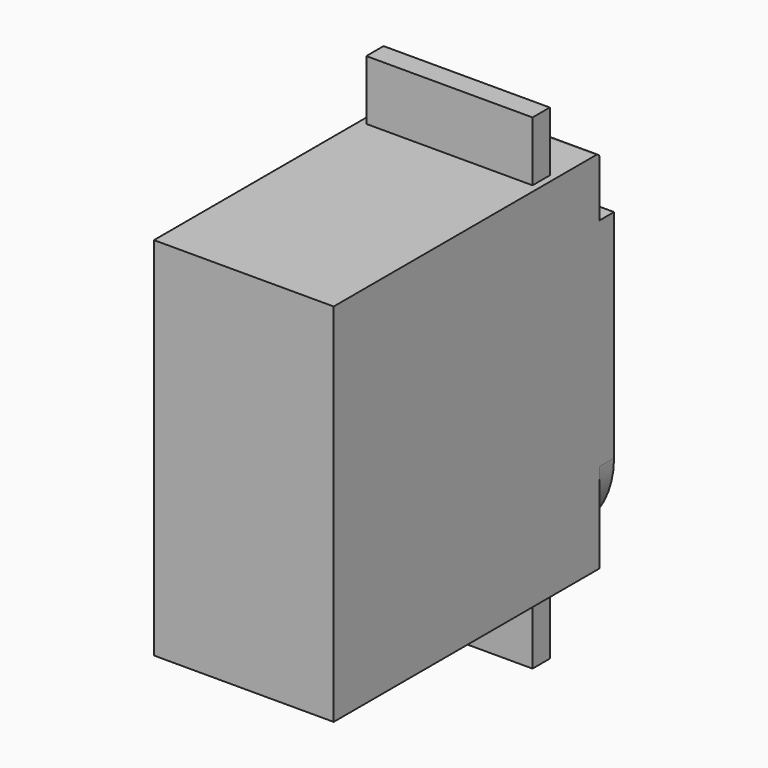
from build123d import *

# Parameters (mm, degrees)
SKETCH020_W     = 20
SKETCH020_H     = 40.7
PAD008_DEPTH    = 37
SKETCH021_W     = 18.5
SKETCH021_H     = 2.4
PAD009_DEPTH    = 6.65
SKETCH022_W     = 18.5
SKETCH022_H     = 2.4
PAD010_DEPTH    = 6.65
PAD011_DEPTH    = 2
FILLET_R        = 0.5
SKETCH024_R     = 6.5
PAD012_DEPTH    = 1
PAD013_DEPTH    = 5
SKETCH026_R     = 1.3
POCKET004_DEPTH = 5


with BuildPart() as part:
    # Sketch020 → Pad008 (new body)
    with BuildSketch(Plane.XZ):
        with Locations((10, 22.35)):
            Rectangle(SKETCH020_W, SKETCH020_H)
    extrude(amount=-PAD008_DEPTH)

    # Sketch021 (on Face1 of Pad008) → Pad009 (join)
    with BuildSketch(Plane(origin=(0, 0, 42.7), x_dir=(-1, 0, 0), z_dir=(0, 0, 1))):
        with Locations((-10, -29.8)):
            Rectangle(SKETCH021_W, SKETCH021_H)
    extrude(amount=PAD009_DEPTH)

    # Sketch022 (on Face3 of Pad008) → Pad010 (join)
    with BuildSketch(Plane(origin=(0, 0, 2), x_dir=(1, 0, 0), z_dir=(0, 0, -1))):
        with Locations((10, -29.8)):
            Rectangle(SKETCH022_W, SKETCH022_H)
    extrude(amount=PAD010_DEPTH)

    # Sketch023 (on Face4 of Pad010) → Pad011 (join)
    with BuildSketch(Plane(origin=(0, 37, 0), x_dir=(1, 0, 0), z_dir=(0, 1, 0))):
        with BuildLine():
            ThreePointArc((20, -12), (10, -2), (0, -12))
            Line((0, -12), (0, -36.1))
            Line((0, -36.1), (20, -36.1))
            Line((20, -12), (20, -36.1))
        make_face()
    extrude(amount=PAD011_DEPTH)

    # Fillet
    fillet_edges = [part.edges().sort_by_distance(p)[0] for p in [
        (10, 37, 42.7),
    ]]
    fillet(fillet_edges, radius=FILLET_R)

    # Sketch024 (on Face23 of Fillet) → Pad012 (join)
    with BuildSketch(Plane(origin=(0, 39, 0), x_dir=(1, 0, 0), z_dir=(0, 1, 0))):
        with Locations((10, -12)):
            Circle(SKETCH024_R)
    extrude(amount=PAD012_DEPTH)

    # InvoluteGear → Pad013 (join)
    with BuildSketch(Plane(origin=(10, 40, 12), x_dir=(1, 0, 0), z_dir=(0, -1, 0))):
        with BuildLine():
            Line((2.666822, -0.207727), (2.697908, -0.209975))
            add(Edge.make_bspline(
                [(2.697908, -0.209975), (2.709681, -0.210218), (2.745146, -0.209606), (2.804225, -0.197137)],
                knots=[0, 0, 0, 0, 1, 1, 1, 1], degree=3))
            add(Edge.make_bspline(
                [(2.804225, -0.197137), (2.874996, -0.18201), (2.977182, -0.150005), (3.104137, -0.082684)],
                knots=[0, 0, 0, 0, 1, 1, 1, 1], degree=3))
            ThreePointArc((3.104137, -0.082684), (3.105119, 4.5e-05), (3.103897, 0.082769))
            add(Edge.make_bspline(
                [(3.103897, 0.082769), (2.977182, 0.150005), (2.874996, 0.18201), (2.804225, 0.197137)],
                knots=[0, 0, 0, 0, 1, 1, 1, 1], degree=3))
            add(Edge.make_bspline(
                [(2.804225, 0.197137), (2.745146, 0.209606), (2.709681, 0.210218), (2.697908, 0.209975)],
                knots=[0, 0, 0, 0, 1, 1, 1, 1], degree=3))
            Line((2.697908, 0.209975), (2.666822, 0.207727))
            ThreePointArc((2.666822, 0.207727), (2.603454, 0.226944), (2.571748, 0.285077))
            ThreePointArc((2.571748, 0.285077), (2.567097, 0.3243), (2.561847, 0.363447))
            ThreePointArc((2.561847, 0.363447), (2.578101, 0.427639), (2.634699, 0.46201))
            Line((2.634699, 0.46201), (2.665367, 0.467564))
            add(Edge.make_bspline(
                [(2.665367, 0.467564), (2.67683, 0.470257), (2.711029, 0.479669), (2.765151, 0.506439)],
                knots=[0, 0, 0, 0, 1, 1, 1, 1], degree=3))
            add(Edge.make_bspline(
                [(2.765151, 0.506439), (2.829936, 0.538691), (2.920953, 0.595103), (3.027178, 0.691882)],
                knots=[0, 0, 0, 0, 1, 1, 1, 1], degree=3))
            ThreePointArc((3.027178, 0.691882), (3.007555, 0.772255), (2.985798, 0.852077))
            add(Edge.make_bspline(
                [(2.985798, 0.852077), (2.846344, 0.885688), (2.739409, 0.891274), (2.667099, 0.888326)],
                knots=[0, 0, 0, 0, 1, 1, 1, 1], degree=3))
            add(Edge.make_bspline(
                [(2.667099, 0.888326), (2.606776, 0.885711), (2.572272, 0.877483), (2.56093, 0.874321)],
                knots=[0, 0, 0, 0, 1, 1, 1, 1], degree=3))
            Line((2.56093, 0.874321), (2.531379, 0.864413))
            ThreePointArc((2.531379, 0.864413), (2.465223, 0.867267), (2.420056, 0.915688))
            ThreePointArc((2.420056, 0.915688), (2.405797, 0.952522), (2.390977, 0.989134))
            ThreePointArc((2.390977, 0.989134), (2.390756, 1.055351), (2.437027, 1.102718))
            Line((2.437027, 1.102718), (2.465351, 1.115724))
            add(Edge.make_bspline(
                [(2.465351, 1.115724), (2.475784, 1.121183), (2.506569, 1.138805), (2.552332, 1.178193)],
                knots=[0, 0, 0, 0, 1, 1, 1, 1], degree=3))
            add(Edge.make_bspline(
                [(2.552332, 1.178193), (2.607062, 1.225544), (2.68119, 1.302818), (2.760009, 1.422973)],
                knots=[0, 0, 0, 0, 1, 1, 1, 1], degree=3))
            ThreePointArc((2.760009, 1.422973), (2.721015, 1.495942), (2.680091, 1.567845))
            add(Edge.make_bspline(
                [(2.680091, 1.567845), (2.536659, 1.565719), (2.431694, 1.544536), (2.362389, 1.523698)],
                knots=[0, 0, 0, 0, 1, 1, 1, 1], degree=3))
            add(Edge.make_bspline(
                [(2.362389, 1.523698), (2.304611, 1.506164), (2.273238, 1.489614), (2.263038, 1.48373)],
                knots=[0, 0, 0, 0, 1, 1, 1, 1], degree=3))
            Line((2.263038, 1.48373), (2.236881, 1.466784))
            ThreePointArc((2.236881, 1.466784), (2.172093, 1.453096), (2.116303, 1.488764))
            ThreePointArc((2.116303, 1.488764), (2.093331, 1.520894), (2.069872, 1.552671))
            ThreePointArc((2.069872, 1.552671), (2.053191, 1.616752), (2.086229, 1.674139))
            Line((2.086229, 1.674139), (2.110428, 1.69378))
            add(Edge.make_bspline(
                [(2.110428, 1.69378), (2.119176, 1.701662), (2.144611, 1.726386), (2.179141, 1.775917)],
                knots=[0, 0, 0, 0, 1, 1, 1, 1], degree=3))
            add(Edge.make_bspline(
                [(2.179141, 1.775917), (2.220376, 1.835391), (2.272958, 1.928672), (2.319419, 2.064654)],
                knots=[0, 0, 0, 0, 1, 1, 1, 1], degree=3))
            ThreePointArc((2.319419, 2.064654), (2.263504, 2.125633), (2.205984, 2.1851))
            add(Edge.make_bspline(
                [(2.205984, 2.1851), (2.067587, 2.14737), (1.971188, 2.100749), (1.909242, 2.06333)],
                knots=[0, 0, 0, 0, 1, 1, 1, 1], degree=3))
            add(Edge.make_bspline(
                [(1.909242, 2.06333), (1.85764, 2.031978), (1.831368, 2.008146), (1.822952, 1.999911)],
                knots=[0, 0, 0, 0, 1, 1, 1, 1], degree=3))
            Line((1.822952, 1.999911), (1.80183, 1.976992))
            ThreePointArc((1.80183, 1.976992), (1.742483, 1.947622), (1.679575, 1.968295))
            ThreePointArc((1.679575, 1.968295), (1.649335, 1.993703), (1.61871, 2.018647))
            ThreePointArc((1.61871, 2.018647), (1.586616, 2.076567), (1.604345, 2.140366))
            Line((1.604345, 2.140366), (1.6229, 2.165409))
            add(Edge.make_bspline(
                [(1.6229, 2.165409), (1.629412, 2.175219), (1.647899, 2.205491), (1.669027, 2.262054)],
                knots=[0, 0, 0, 0, 1, 1, 1, 1], degree=3))
            add(Edge.make_bspline(
                [(1.669027, 2.262054), (1.694175, 2.329914), (1.721907, 2.433341), (1.733092, 2.576606)],
                knots=[0, 0, 0, 0, 1, 1, 1, 1], degree=3))
            ThreePointArc((1.733092, 2.576606), (1.663768, 2.621763), (1.593266, 2.665057))
            add(Edge.make_bspline(
                [(1.593266, 2.665057), (1.4686, 2.594095), (1.386824, 2.524965), (1.33613, 2.473316)],
                knots=[0, 0, 0, 0, 1, 1, 1, 1], degree=3))
            add(Edge.make_bspline(
                [(1.33613, 2.473316), (1.293947, 2.430116), (1.274427, 2.400499), (1.268323, 2.39043)],
                knots=[0, 0, 0, 0, 1, 1, 1, 1], degree=3))
            Line((1.268323, 2.39043), (1.253565, 2.362978))
            ThreePointArc((1.253565, 2.362978), (1.203385, 2.319772), (1.137313, 2.32415))
            ThreePointArc((1.137313, 2.32415), (1.101704, 2.34124), (1.065838, 2.357784))
            ThreePointArc((1.065838, 2.357784), (1.020348, 2.405903), (1.021654, 2.472107))
            Line((1.021654, 2.472107), (1.033398, 2.500977))
            add(Edge.make_bspline(
                [(1.033398, 2.500977), (1.037266, 2.512099), (1.047644, 2.546017), (1.054041, 2.606057)],
                knots=[0, 0, 0, 0, 1, 1, 1, 1], degree=3))
            add(Edge.make_bspline(
                [(1.054041, 2.606057), (1.061524, 2.678039), (1.062663, 2.785114), (1.037868, 2.926659)],
                knots=[0, 0, 0, 0, 1, 1, 1, 1], degree=3))
            ThreePointArc((1.037868, 2.926659), (0.959492, 2.953158), (0.880438, 2.977558))
            add(Edge.make_bspline(
                [(0.880438, 2.977558), (0.777336, 2.877823), (0.715321, 2.790527), (0.679065, 2.727895)],
                knots=[0, 0, 0, 0, 1, 1, 1, 1], degree=3))
            add(Edge.make_bspline(
                [(0.679065, 2.727895), (0.648949, 2.675561), (0.637409, 2.64202), (0.634001, 2.630749)],
                knots=[0, 0, 0, 0, 1, 1, 1, 1], degree=3))
            Line((0.634001, 2.630749), (0.626533, 2.60049))
            ThreePointArc((0.626533, 2.60049), (0.588675, 2.546162), (0.52359, 2.533971))
            ThreePointArc((0.52359, 2.533971), (0.484849, 2.541668), (0.445996, 2.548773))
            ThreePointArc((0.445996, 2.548773), (0.389968, 2.584067), (0.374769, 2.648516))
            Line((0.374769, 2.648516), (0.378964, 2.6794))
            add(Edge.make_bspline(
                [(0.378964, 2.6794), (0.379945, 2.691134), (0.381562, 2.726568), (0.372827, 2.786313)],
                knots=[0, 0, 0, 0, 1, 1, 1, 1], degree=3))
            add(Edge.make_bspline(
                [(0.372827, 2.786313), (0.362173, 2.857894), (0.336648, 2.961888), (0.277431, 3.09282)],
                knots=[0, 0, 0, 0, 1, 1, 1, 1], degree=3))
            ThreePointArc((0.277431, 3.09282), (0.194928, 3.098995), (0.112289, 3.102969))
            add(Edge.make_bspline(
                [(0.112289, 3.102969), (0.03723, 2.980726), (-0.001128, 2.880751), (-0.020669, 2.811069)],
                knots=[0, 0, 0, 0, 1, 1, 1, 1], degree=3))
            add(Edge.make_bspline(
                [(-0.020669, 2.811069), (-0.036823, 2.752891), (-0.039661, 2.717533), (-0.040158, 2.705769)],
                knots=[0, 0, 0, 0, 1, 1, 1, 1], degree=3))
            Line((-0.040158, 2.705769), (-0.039866, 2.674603))
            ThreePointArc((-0.039866, 2.674603), (-0.063024, 2.612567), (-0.123033, 2.584573))
            ThreePointArc((-0.123033, 2.584573), (-0.16247, 2.582394), (-0.20187, 2.579613))
            ThreePointArc((-0.20187, 2.579613), (-0.264914, 2.599865), (-0.295665, 2.658509))
            Line((-0.295665, 2.658509), (-0.299281, 2.689466))
            add(Edge.make_bspline(
                [(-0.299281, 2.689466), (-0.301249, 2.701076), (-0.308496, 2.735799), (-0.331814, 2.791494)],
                knots=[0, 0, 0, 0, 1, 1, 1, 1], degree=3))
            add(Edge.make_bspline(
                [(-0.331814, 2.791494), (-0.359935, 2.858177), (-0.41052, 2.952556), (-0.500438, 3.064648)],
                knots=[0, 0, 0, 0, 1, 1, 1, 1], degree=3))
            ThreePointArc((-0.500438, 3.064648), (-0.581885, 3.050111), (-0.662916, 3.033409))
            add(Edge.make_bspline(
                [(-0.662916, 3.033409), (-0.705217, 2.89634), (-0.717506, 2.789967), (-0.719104, 2.717614)],
                knots=[0, 0, 0, 0, 1, 1, 1, 1], degree=3))
            add(Edge.make_bspline(
                [(-0.719104, 2.717614), (-0.720283, 2.657246), (-0.714238, 2.622294), (-0.711794, 2.610775)],
                knots=[0, 0, 0, 0, 1, 1, 1, 1], degree=3))
            Line((-0.711794, 2.610775), (-0.70376, 2.580661))
            ThreePointArc((-0.70376, 2.580661), (-0.710763, 2.514815), (-0.761925, 2.472777))
            ThreePointArc((-0.761925, 2.472777), (-0.799581, 2.460859), (-0.837052, 2.448367))
            ThreePointArc((-0.837052, 2.448367), (-0.903152, 2.452304), (-0.94752, 2.501459))
            Line((-0.94752, 2.501459), (-0.958722, 2.530543))
            add(Edge.make_bspline(
                [(-0.958722, 2.530543), (-0.963515, 2.541299), (-0.979169, 2.573129), (-1.015606, 2.621275)],
                knots=[0, 0, 0, 0, 1, 1, 1, 1], degree=3))
            add(Edge.make_bspline(
                [(-1.015606, 2.621275), (-1.059427, 2.67887), (-1.131894, 2.757704), (-1.246863, 2.843912)],
                knots=[0, 0, 0, 0, 1, 1, 1, 1], degree=3))
            ThreePointArc((-1.246863, 2.843912), (-1.322136, 2.809577), (-1.396467, 2.773248))
            add(Edge.make_bspline(
                [(-1.396467, 2.773248), (-1.403351, 2.629966), (-1.388801, 2.523878), (-1.372356, 2.453401)],
                knots=[0, 0, 0, 0, 1, 1, 1, 1], degree=3))
            add(Edge.make_bspline(
                [(-1.372356, 2.453401), (-1.358484, 2.394637), (-1.343937, 2.362286), (-1.338705, 2.351737)],
                knots=[0, 0, 0, 0, 1, 1, 1, 1], degree=3))
            Line((-1.338705, 2.351737), (-1.323435, 2.324567))
            ThreePointArc((-1.323435, 2.324567), (-1.313842, 2.259048), (-1.352942, 2.205607))
            ThreePointArc((-1.352942, 2.205607), (-1.386452, 2.184699), (-1.419638, 2.163281))
            ThreePointArc((-1.419638, 2.163281), (-1.484641, 2.150656), (-1.53984, 2.187232))
            Line((-1.53984, 2.187232), (-1.557922, 2.212617))
            add(Edge.make_bspline(
                [(-1.557922, 2.212617), (-1.56524, 2.221843), (-1.588318, 2.24878), (-1.635583, 2.286352)],
                knots=[0, 0, 0, 0, 1, 1, 1, 1], degree=3))
            add(Edge.make_bspline(
                [(-1.635583, 2.286352), (-1.692351, 2.33124), (-1.782146, 2.389575), (-1.914943, 2.444483)],
                knots=[0, 0, 0, 0, 1, 1, 1, 1], degree=3))
            ThreePointArc((-1.914943, 2.444483), (-1.979312, 2.392507), (-2.042273, 2.338834))
            add(Edge.make_bspline(
                [(-2.042273, 2.338834), (-2.013308, 2.198341), (-1.972832, 2.099205), (-1.939377, 2.035032)],
                knots=[0, 0, 0, 0, 1, 1, 1, 1], degree=3))
            add(Edge.make_bspline(
                [(-1.939377, 2.035032), (-1.911327, 1.981564), (-1.889191, 1.953847), (-1.8815, 1.94493)],
                knots=[0, 0, 0, 0, 1, 1, 1, 1], degree=3))
            Line((-1.8815, 1.94493), (-1.859953, 1.922411))
            ThreePointArc((-1.859953, 1.922411), (-1.834368, 1.861337), (-1.858949, 1.799851))
            ThreePointArc((-1.858949, 1.799851), (-1.886206, 1.771266), (-1.913024, 1.742268))
            ThreePointArc((-1.913024, 1.742268), (-1.972845, 1.713874), (-2.035405, 1.735574))
            Line((-2.035405, 1.735574), (-2.059233, 1.755664))
            add(Edge.make_bspline(
                [(-2.059233, 1.755664), (-2.068615, 1.76278), (-2.097667, 1.783132), (-2.152791, 1.807769)],
                knots=[0, 0, 0, 0, 1, 1, 1, 1], degree=3))
            add(Edge.make_bspline(
                [(-2.152791, 1.807769), (-2.218938, 1.837129), (-2.32042, 1.8713), (-2.4627, 1.891459)],
                knots=[0, 0, 0, 0, 1, 1, 1, 1], degree=3))
            ThreePointArc((-2.4627, 1.891459), (-2.51212, 1.825107), (-2.559756, 1.757463))
            add(Edge.make_bspline(
                [(-2.559756, 1.757463), (-2.496762, 1.628587), (-2.432903, 1.542631), (-2.38454, 1.488795)],
                knots=[0, 0, 0, 0, 1, 1, 1, 1], degree=3))
            add(Edge.make_bspline(
                [(-2.38454, 1.488795), (-2.344074, 1.443982), (-2.315741, 1.422641), (-2.306074, 1.415917)],
                knots=[0, 0, 0, 0, 1, 1, 1, 1], degree=3))
            Line((-2.306074, 1.415917), (-2.279603, 1.399464))
            ThreePointArc((-2.279603, 1.399464), (-2.239633, 1.346671), (-2.248152, 1.281004))
            ThreePointArc((-2.248152, 1.281004), (-2.267444, 1.246538), (-2.286207, 1.211781))
            ThreePointArc((-2.286207, 1.211781), (-2.337087, 1.169403), (-2.403079, 1.174863))
            Line((-2.403079, 1.174863), (-2.431154, 1.188396))
            add(Edge.make_bspline(
                [(-2.431154, 1.188396), (-2.442011, 1.192955), (-2.475211, 1.205443), (-2.534731, 1.215597)],
                knots=[0, 0, 0, 0, 1, 1, 1, 1], degree=3))
            add(Edge.make_bspline(
                [(-2.534731, 1.215597), (-2.606101, 1.227585), (-2.712893, 1.235445), (-2.855716, 1.219586)],
                knots=[0, 0, 0, 0, 1, 1, 1, 1], degree=3))
            ThreePointArc((-2.855716, 1.219586), (-2.887083, 1.143029), (-2.9164, 1.065663))
            add(Edge.make_bspline(
                [(-2.9164, 1.065663), (-2.823334, 0.956502), (-2.740106, 0.889128), (-2.679873, 0.849011)],
                knots=[0, 0, 0, 0, 1, 1, 1, 1], degree=3))
            add(Edge.make_bspline(
                [(-2.679873, 0.849011), (-2.629534, 0.815669), (-2.596784, 0.802045), (-2.585749, 0.797936)],
                knots=[0, 0, 0, 0, 1, 1, 1, 1], degree=3))
            Line((-2.585749, 0.797936), (-2.556018, 0.788583))
            ThreePointArc((-2.556018, 0.788583), (-2.504174, 0.747388), (-2.496095, 0.681666))
            ThreePointArc((-2.496095, 0.681666), (-2.506209, 0.643485), (-2.515739, 0.605154))
            ThreePointArc((-2.515739, 0.605154), (-2.554482, 0.551454), (-2.619758, 0.540331))
            Line((-2.619758, 0.540331), (-2.650317, 0.546457))
            add(Edge.make_bspline(
                [(-2.650317, 0.546457), (-2.661967, 0.548173), (-2.697229, 0.552012), (-2.757405, 0.547045)],
                knots=[0, 0, 0, 0, 1, 1, 1, 1], degree=3))
            add(Edge.make_bspline(
                [(-2.757405, 0.547045), (-2.829514, 0.540907), (-2.934905, 0.521962), (-3.069297, 0.471083)],
                knots=[0, 0, 0, 0, 1, 1, 1, 1], degree=3))
            ThreePointArc((-3.069297, 0.471083), (-3.08064, 0.38913), (-3.089795, 0.306905))
            add(Edge.make_bspline(
                [(-3.089795, 0.306905), (-2.972507, 0.224317), (-2.875137, 0.179758), (-2.80682, 0.15588)],
                knots=[0, 0, 0, 0, 1, 1, 1, 1], degree=3))
            add(Edge.make_bspline(
                [(-2.80682, 0.15588), (-2.749771, 0.136105), (-2.714661, 0.131053), (-2.702951, 0.129818)],
                knots=[0, 0, 0, 0, 1, 1, 1, 1], degree=3))
            Line((-2.702951, 0.129818), (-2.671828, 0.128152))
            ThreePointArc((-2.671828, 0.128152), (-2.611369, 0.101145), (-2.587199, 0.039497))
            ThreePointArc((-2.587199, 0.039497), (-2.5875, 0), (-2.587199, -0.039497))
            ThreePointArc((-2.587199, -0.039497), (-2.611369, -0.101145), (-2.671828, -0.128152))
            Line((-2.671828, -0.128152), (-2.702951, -0.129818))
            add(Edge.make_bspline(
                [(-2.702951, -0.129818), (-2.714661, -0.131053), (-2.749771, -0.136105), (-2.80682, -0.15588)],
                knots=[0, 0, 0, 0, 1, 1, 1, 1], degree=3))
            add(Edge.make_bspline(
                [(-2.80682, -0.15588), (-2.875137, -0.179758), (-2.972507, -0.224317), (-3.090023, -0.30702)],
                knots=[0, 0, 0, 0, 1, 1, 1, 1], degree=3))
            ThreePointArc((-3.090023, -0.30702), (-3.080629, -0.389219), (-3.069048, -0.471138))
            add(Edge.make_bspline(
                [(-3.069048, -0.471138), (-2.934905, -0.521962), (-2.829514, -0.540907), (-2.757405, -0.547045)],
                knots=[0, 0, 0, 0, 1, 1, 1, 1], degree=3))
            add(Edge.make_bspline(
                [(-2.757405, -0.547045), (-2.697229, -0.552012), (-2.661967, -0.548173), (-2.650317, -0.546457)],
                knots=[0, 0, 0, 0, 1, 1, 1, 1], degree=3))
            Line((-2.650317, -0.546457), (-2.619758, -0.540331))
            ThreePointArc((-2.619758, -0.540331), (-2.554482, -0.551454), (-2.515739, -0.605154))
            ThreePointArc((-2.515739, -0.605154), (-2.506209, -0.643485), (-2.496095, -0.681666))
            ThreePointArc((-2.496095, -0.681666), (-2.504174, -0.747388), (-2.556018, -0.788583))
            Line((-2.556018, -0.788583), (-2.585749, -0.797936))
            add(Edge.make_bspline(
                [(-2.585749, -0.797936), (-2.596784, -0.802045), (-2.629534, -0.815669), (-2.679873, -0.849011)],
                knots=[0, 0, 0, 0, 1, 1, 1, 1], degree=3))
            add(Edge.make_bspline(
                [(-2.679873, -0.849011), (-2.740106, -0.889128), (-2.823334, -0.956502), (-2.916592, -1.065832)],
                knots=[0, 0, 0, 0, 1, 1, 1, 1], degree=3))
            ThreePointArc((-2.916592, -1.065832), (-2.88705, -1.143112), (-2.855461, -1.219578))
            add(Edge.make_bspline(
                [(-2.855461, -1.219578), (-2.712893, -1.235445), (-2.606101, -1.227585), (-2.534731, -1.215597)],
                knots=[0, 0, 0, 0, 1, 1, 1, 1], degree=3))
            add(Edge.make_bspline(
                [(-2.534731, -1.215597), (-2.475211, -1.205443), (-2.442011, -1.192955), (-2.431154, -1.188396)],
                knots=[0, 0, 0, 0, 1, 1, 1, 1], degree=3))
            Line((-2.431154, -1.188396), (-2.403079, -1.174863))
            ThreePointArc((-2.403079, -1.174863), (-2.337087, -1.169403), (-2.286207, -1.211781))
            ThreePointArc((-2.286207, -1.211781), (-2.267444, -1.246538), (-2.248152, -1.281004))
            ThreePointArc((-2.248152, -1.281004), (-2.239633, -1.346671), (-2.279603, -1.399464))
            Line((-2.279603, -1.399464), (-2.306074, -1.415917))
            add(Edge.make_bspline(
                [(-2.306074, -1.415917), (-2.315741, -1.422641), (-2.344074, -1.443982), (-2.38454, -1.488795)],
                knots=[0, 0, 0, 0, 1, 1, 1, 1], degree=3))
            add(Edge.make_bspline(
                [(-2.38454, -1.488795), (-2.432903, -1.542631), (-2.496762, -1.628587), (-2.5599, -1.757674)],
                knots=[0, 0, 0, 0, 1, 1, 1, 1], degree=3))
            ThreePointArc((-2.5599, -1.757674), (-2.512068, -1.825179), (-2.462454, -1.891387))
            add(Edge.make_bspline(
                [(-2.462454, -1.891387), (-2.32042, -1.8713), (-2.218938, -1.837129), (-2.152791, -1.807769)],
                knots=[0, 0, 0, 0, 1, 1, 1, 1], degree=3))
            add(Edge.make_bspline(
                [(-2.152791, -1.807769), (-2.097667, -1.783132), (-2.068615, -1.76278), (-2.059233, -1.755664)],
                knots=[0, 0, 0, 0, 1, 1, 1, 1], degree=3))
            Line((-2.059233, -1.755664), (-2.035405, -1.735574))
            ThreePointArc((-2.035405, -1.735574), (-1.972845, -1.713874), (-1.913024, -1.742268))
            ThreePointArc((-1.913024, -1.742268), (-1.886206, -1.771266), (-1.858949, -1.799851))
            ThreePointArc((-1.858949, -1.799851), (-1.834368, -1.861337), (-1.859953, -1.922411))
            Line((-1.859953, -1.922411), (-1.8815, -1.94493))
            add(Edge.make_bspline(
                [(-1.8815, -1.94493), (-1.889191, -1.953847), (-1.911327, -1.981564), (-1.939377, -2.035032)],
                knots=[0, 0, 0, 0, 1, 1, 1, 1], degree=3))
            add(Edge.make_bspline(
                [(-1.939377, -2.035032), (-1.972832, -2.099205), (-2.013308, -2.198341), (-2.04236, -2.339074)],
                knots=[0, 0, 0, 0, 1, 1, 1, 1], degree=3))
            ThreePointArc((-2.04236, -2.339074), (-1.979243, -2.392564), (-1.914723, -2.444353))
            add(Edge.make_bspline(
                [(-1.914723, -2.444353), (-1.782146, -2.389575), (-1.692351, -2.33124), (-1.635583, -2.286352)],
                knots=[0, 0, 0, 0, 1, 1, 1, 1], degree=3))
            add(Edge.make_bspline(
                [(-1.635583, -2.286352), (-1.588318, -2.24878), (-1.56524, -2.221843), (-1.557922, -2.212617)],
                knots=[0, 0, 0, 0, 1, 1, 1, 1], degree=3))
            Line((-1.557922, -2.212617), (-1.53984, -2.187232))
            ThreePointArc((-1.53984, -2.187232), (-1.484641, -2.150656), (-1.419638, -2.163281))
            ThreePointArc((-1.419638, -2.163281), (-1.386452, -2.184699), (-1.352942, -2.205607))
            ThreePointArc((-1.352942, -2.205607), (-1.313842, -2.259048), (-1.323435, -2.324567))
            Line((-1.323435, -2.324567), (-1.338705, -2.351737))
            add(Edge.make_bspline(
                [(-1.338705, -2.351737), (-1.343937, -2.362286), (-1.358484, -2.394637), (-1.372356, -2.453401)],
                knots=[0, 0, 0, 0, 1, 1, 1, 1], degree=3))
            add(Edge.make_bspline(
                [(-1.372356, -2.453401), (-1.388801, -2.523878), (-1.403351, -2.629966), (-1.396492, -2.773502)],
                knots=[0, 0, 0, 0, 1, 1, 1, 1], degree=3))
            ThreePointArc((-1.396492, -2.773502), (-1.322055, -2.809615), (-1.246683, -2.843731))
            add(Edge.make_bspline(
                [(-1.246683, -2.843731), (-1.131894, -2.757704), (-1.059427, -2.67887), (-1.015606, -2.621275)],
                knots=[0, 0, 0, 0, 1, 1, 1, 1], degree=3))
            add(Edge.make_bspline(
                [(-1.015606, -2.621275), (-0.979169, -2.573129), (-0.963515, -2.541299), (-0.958722, -2.530543)],
                knots=[0, 0, 0, 0, 1, 1, 1, 1], degree=3))
            Line((-0.958722, -2.530543), (-0.94752, -2.501459))
            ThreePointArc((-0.94752, -2.501459), (-0.903152, -2.452304), (-0.837052, -2.448367))
            ThreePointArc((-0.837052, -2.448367), (-0.799581, -2.460859), (-0.761925, -2.472777))
            ThreePointArc((-0.761925, -2.472777), (-0.710763, -2.514815), (-0.70376, -2.580661))
            Line((-0.70376, -2.580661), (-0.711794, -2.610775))
            add(Edge.make_bspline(
                [(-0.711794, -2.610775), (-0.714238, -2.622294), (-0.720283, -2.657246), (-0.719104, -2.717614)],
                knots=[0, 0, 0, 0, 1, 1, 1, 1], degree=3))
            add(Edge.make_bspline(
                [(-0.719104, -2.717614), (-0.717506, -2.789967), (-0.705217, -2.89634), (-0.662876, -3.033661)],
                knots=[0, 0, 0, 0, 1, 1, 1, 1], degree=3))
            ThreePointArc((-0.662876, -3.033661), (-0.581798, -3.050127), (-0.500309, -3.064428))
            add(Edge.make_bspline(
                [(-0.500309, -3.064428), (-0.41052, -2.952556), (-0.359935, -2.858177), (-0.331814, -2.791494)],
                knots=[0, 0, 0, 0, 1, 1, 1, 1], degree=3))
            add(Edge.make_bspline(
                [(-0.331814, -2.791494), (-0.308496, -2.735799), (-0.301249, -2.701076), (-0.299281, -2.689466)],
                knots=[0, 0, 0, 0, 1, 1, 1, 1], degree=3))
            Line((-0.299281, -2.689466), (-0.295665, -2.658509))
            ThreePointArc((-0.295665, -2.658509), (-0.264914, -2.599865), (-0.20187, -2.579613))
            ThreePointArc((-0.20187, -2.579613), (-0.16247, -2.582394), (-0.123033, -2.584573))
            ThreePointArc((-0.123033, -2.584573), (-0.063024, -2.612567), (-0.039866, -2.674603))
            Line((-0.039866, -2.674603), (-0.040158, -2.705769))
            add(Edge.make_bspline(
                [(-0.040158, -2.705769), (-0.039661, -2.717533), (-0.036823, -2.752891), (-0.020669, -2.811069)],
                knots=[0, 0, 0, 0, 1, 1, 1, 1], degree=3))
            add(Edge.make_bspline(
                [(-0.020669, -2.811069), (-0.001128, -2.880751), (0.03723, -2.980726), (0.11239, -3.103204)],
                knots=[0, 0, 0, 0, 1, 1, 1, 1], degree=3))
            ThreePointArc((0.11239, -3.103204), (0.195016, -3.098989), (0.277501, -3.092575))
            add(Edge.make_bspline(
                [(0.277501, -3.092575), (0.336648, -2.961888), (0.362173, -2.857894), (0.372827, -2.786313)],
                knots=[0, 0, 0, 0, 1, 1, 1, 1], degree=3))
            add(Edge.make_bspline(
                [(0.372827, -2.786313), (0.381562, -2.726568), (0.379945, -2.691134), (0.378964, -2.6794)],
                knots=[0, 0, 0, 0, 1, 1, 1, 1], degree=3))
            Line((0.378964, -2.6794), (0.374769, -2.648516))
            ThreePointArc((0.374769, -2.648516), (0.389968, -2.584067), (0.445996, -2.548773))
            ThreePointArc((0.445996, -2.548773), (0.484849, -2.541668), (0.52359, -2.533971))
            ThreePointArc((0.52359, -2.533971), (0.588675, -2.546162), (0.626533, -2.60049))
            Line((0.626533, -2.60049), (0.634001, -2.630749))
            add(Edge.make_bspline(
                [(0.634001, -2.630749), (0.637409, -2.64202), (0.648949, -2.675561), (0.679065, -2.727895)],
                knots=[0, 0, 0, 0, 1, 1, 1, 1], degree=3))
            add(Edge.make_bspline(
                [(0.679065, -2.727895), (0.715321, -2.790527), (0.777336, -2.877823), (0.880594, -2.977761)],
                knots=[0, 0, 0, 0, 1, 1, 1, 1], degree=3))
            ThreePointArc((0.880594, -2.977761), (0.959577, -2.95313), (1.037875, -2.926404))
            add(Edge.make_bspline(
                [(1.037875, -2.926404), (1.062663, -2.785114), (1.061524, -2.678039), (1.054041, -2.606057)],
                knots=[0, 0, 0, 0, 1, 1, 1, 1], degree=3))
            add(Edge.make_bspline(
                [(1.054041, -2.606057), (1.047644, -2.546017), (1.037266, -2.512099), (1.033398, -2.500977)],
                knots=[0, 0, 0, 0, 1, 1, 1, 1], degree=3))
            Line((1.033398, -2.500977), (1.021654, -2.472107))
            ThreePointArc((1.021654, -2.472107), (1.020348, -2.405903), (1.065838, -2.357784))
            ThreePointArc((1.065838, -2.357784), (1.101704, -2.34124), (1.137313, -2.32415))
            ThreePointArc((1.137313, -2.32415), (1.203385, -2.319772), (1.253565, -2.362978))
            Line((1.253565, -2.362978), (1.268323, -2.39043))
            add(Edge.make_bspline(
                [(1.268323, -2.39043), (1.274427, -2.400499), (1.293947, -2.430116), (1.33613, -2.473316)],
                knots=[0, 0, 0, 0, 1, 1, 1, 1], degree=3))
            add(Edge.make_bspline(
                [(1.33613, -2.473316), (1.386824, -2.524965), (1.4686, -2.594095), (1.593468, -2.665214)],
                knots=[0, 0, 0, 0, 1, 1, 1, 1], degree=3))
            ThreePointArc((1.593468, -2.665214), (1.663844, -2.621715), (1.733036, -2.576357))
            add(Edge.make_bspline(
                [(1.733036, -2.576357), (1.721907, -2.433341), (1.694175, -2.329914), (1.669027, -2.262054)],
                knots=[0, 0, 0, 0, 1, 1, 1, 1], degree=3))
            add(Edge.make_bspline(
                [(1.669027, -2.262054), (1.647899, -2.205491), (1.629412, -2.175219), (1.6229, -2.165409)],
                knots=[0, 0, 0, 0, 1, 1, 1, 1], degree=3))
            Line((1.6229, -2.165409), (1.604345, -2.140366))
            ThreePointArc((1.604345, -2.140366), (1.586616, -2.076567), (1.61871, -2.018647))
            ThreePointArc((1.61871, -2.018647), (1.649335, -1.993703), (1.679575, -1.968295))
            ThreePointArc((1.679575, -1.968295), (1.742483, -1.947622), (1.80183, -1.976992))
            Line((1.80183, -1.976992), (1.822952, -1.999911))
            add(Edge.make_bspline(
                [(1.822952, -1.999911), (1.831368, -2.008146), (1.85764, -2.031978), (1.909242, -2.06333)],
                knots=[0, 0, 0, 0, 1, 1, 1, 1], degree=3))
            add(Edge.make_bspline(
                [(1.909242, -2.06333), (1.971188, -2.100749), (2.067587, -2.14737), (2.206218, -2.185202)],
                knots=[0, 0, 0, 0, 1, 1, 1, 1], degree=3))
            ThreePointArc((2.206218, -2.185202), (2.263565, -2.125568), (2.319303, -2.064427))
            add(Edge.make_bspline(
                [(2.319303, -2.064427), (2.272958, -1.928672), (2.220376, -1.835391), (2.179141, -1.775917)],
                knots=[0, 0, 0, 0, 1, 1, 1, 1], degree=3))
            add(Edge.make_bspline(
                [(2.179141, -1.775917), (2.144611, -1.726386), (2.119176, -1.701662), (2.110428, -1.69378)],
                knots=[0, 0, 0, 0, 1, 1, 1, 1], degree=3))
            Line((2.110428, -1.69378), (2.086229, -1.674139))
            ThreePointArc((2.086229, -1.674139), (2.053191, -1.616752), (2.069872, -1.552671))
            ThreePointArc((2.069872, -1.552671), (2.093331, -1.520894), (2.116303, -1.488764))
            ThreePointArc((2.116303, -1.488764), (2.172093, -1.453096), (2.236881, -1.466784))
            Line((2.236881, -1.466784), (2.263038, -1.48373))
            add(Edge.make_bspline(
                [(2.263038, -1.48373), (2.273238, -1.489614), (2.304611, -1.506164), (2.362389, -1.523698)],
                knots=[0, 0, 0, 0, 1, 1, 1, 1], degree=3))
            add(Edge.make_bspline(
                [(2.362389, -1.523698), (2.431694, -1.544536), (2.536659, -1.565719), (2.680343, -1.567886)],
                knots=[0, 0, 0, 0, 1, 1, 1, 1], degree=3))
            ThreePointArc((2.680343, -1.567886), (2.721058, -1.495864), (2.75984, -1.422782))
            add(Edge.make_bspline(
                [(2.75984, -1.422782), (2.68119, -1.302818), (2.607062, -1.225544), (2.552332, -1.178193)],
                knots=[0, 0, 0, 0, 1, 1, 1, 1], degree=3))
            add(Edge.make_bspline(
                [(2.552332, -1.178193), (2.506569, -1.138805), (2.475784, -1.121183), (2.465351, -1.115724)],
                knots=[0, 0, 0, 0, 1, 1, 1, 1], degree=3))
            Line((2.465351, -1.115724), (2.437027, -1.102718))
            ThreePointArc((2.437027, -1.102718), (2.390756, -1.055351), (2.390977, -0.989134))
            ThreePointArc((2.390977, -0.989134), (2.405797, -0.952522), (2.420056, -0.915688))
            ThreePointArc((2.420056, -0.915688), (2.465223, -0.867267), (2.531379, -0.864413))
            Line((2.531379, -0.864413), (2.56093, -0.874321))
            add(Edge.make_bspline(
                [(2.56093, -0.874321), (2.572272, -0.877483), (2.606776, -0.885711), (2.667099, -0.888326)],
                knots=[0, 0, 0, 0, 1, 1, 1, 1], degree=3))
            add(Edge.make_bspline(
                [(2.667099, -0.888326), (2.739409, -0.891274), (2.846344, -0.885688), (2.986053, -0.852053)],
                knots=[0, 0, 0, 0, 1, 1, 1, 1], degree=3))
            ThreePointArc((2.986053, -0.852053), (3.007577, -0.772169), (3.026966, -0.691739))
            add(Edge.make_bspline(
                [(3.026966, -0.691739), (2.920953, -0.595103), (2.829936, -0.538691), (2.765151, -0.506439)],
                knots=[0, 0, 0, 0, 1, 1, 1, 1], degree=3))
            add(Edge.make_bspline(
                [(2.765151, -0.506439), (2.711029, -0.479669), (2.67683, -0.470257), (2.665367, -0.467564)],
                knots=[0, 0, 0, 0, 1, 1, 1, 1], degree=3))
            Line((2.665367, -0.467564), (2.634699, -0.46201))
            ThreePointArc((2.634699, -0.46201), (2.578101, -0.427639), (2.561847, -0.363447))
            ThreePointArc((2.561847, -0.363447), (2.567097, -0.3243), (2.571748, -0.285077))
            ThreePointArc((2.571748, -0.285077), (2.603454, -0.226944), (2.666822, -0.207727))
        make_face()
    extrude(amount=-PAD013_DEPTH)

    # Sketch026 (on Face277 of Pad013) → Pocket004 (cut)
    with BuildSketch(Plane(origin=(0, 45, 0), x_dir=(1, 0, 0), z_dir=(0, 1, 0))):
        with Locations((10, -12)):
            Circle(SKETCH026_R)
    extrude(amount=-POCKET004_DEPTH, mode=Mode.SUBTRACT)


solid = part.part
